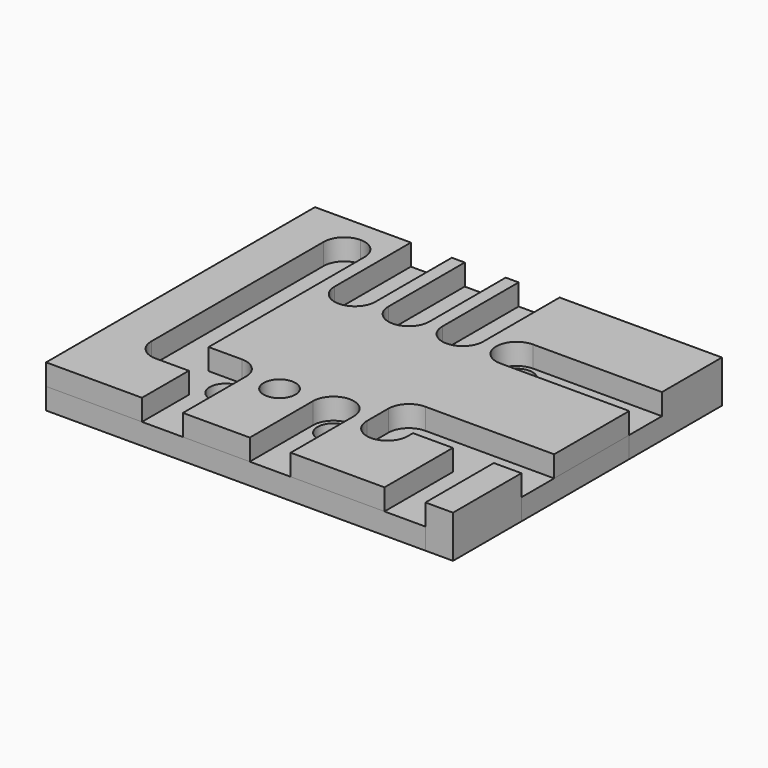
from build123d import *

# Parameters (mm, degrees)
F0_R     = 0.75
F0_W     = 1.3011230478
F0_H     = 4.0286443567
F1_DEPTH = 1
F2_DEPTH = 2


with BuildPart() as f1:
    # F0 (on Top) → F1 (new body)
    with BuildSketch(Plane.XY):
        with BuildLine():
            Line((-3.8324738853, 4.1799998197), (-3.8324738853, 8.6784018204))
            Line((-3.8324738853, 8.6784018204), (-8.3529148251, 8.6784018204))
            Line((-8.3529148251, 8.6784018204), (-8.3529148251, -7.163844537))
            Line((-8.3529148251, -7.163844537), (-3.8324738853, -7.163844537))
            Line((-3.8324738853, -7.163844537), (-3.8324738853, -4.4052001803))
            Line((-3.8324738853, -4.4052001803), (-5.4072738853, -4.4052001803))
            ThreePointArc((-5.4072738853, -4.4052001803), (-6.0897733505, -4.1224996455), (-6.3724738853, -3.4400001803))
            Line((-6.3724738853, -3.4400001803), (-6.3724738853, 6.7199998197))
            ThreePointArc((-6.3724738853, 6.7199998197), (-6.0897733505, 7.4024992849), (-5.4072738853, 7.6851998197))
            ThreePointArc((-5.4072738853, 7.6851998197), (-4.7247744201, 7.4024992849), (-4.4420738853, 6.7199998197))
            Line((-4.4420738853, 6.7199998197), (-4.4420738853, -2.4748001803))
            Line((-4.4420738853, -2.4748001803), (-2.8672738853, -2.4748001803))
            ThreePointArc((-2.8672738853, -2.4748001803), (-2.1847744201, -2.7575007151), (-1.9020738853, -3.4400001803))
            Line((-1.9020738853, -3.4400001803), (-1.9020738853, -7.163844537))
            Line((-1.9020738853, -7.163844537), (1.2475261147, -7.163844537))
            Line((1.2475261147, -7.163844537), (1.2475261147, -3.4400001803))
            ThreePointArc((1.2475261147, -3.4400001803), (2.2127261147, -2.4748001803), (3.1779261147, -3.4400001803))
            Line((3.1779261147, -3.4400001803), (3.1779261147, -7.163844537))
            Line((3.1779261147, -7.163844537), (7.5975261147, -7.163844537))
            Line((7.5975261147, -7.163844537), (7.5975261147, -3.1352001803))
            Line((7.5975261147, -3.1352001803), (5.7179261147, -3.1352001803))
            Line((5.7179261147, -3.1352001803), (5.7179261147, -3.4400001803))
            ThreePointArc((5.7179261147, -3.4400001803), (4.7527261147, -4.4052001803), (3.7875261147, -3.4400001803))
            Line((3.7875261147, -3.4400001803), (3.7875261147, -2.1700001803))
            ThreePointArc((3.7875261147, -2.1700001803), (4.0702266495, -1.4875007151), (4.7527261147, -1.2048001803))
            Line((4.7527261147, -1.2048001803), (8.5627261147, -1.2048001803))
            Line((8.5627261147, -1.2048001803), (10.8290491626, -1.2048001803))
            Line((10.8290491626, -1.2048001803), (10.8290491626, 3.2147998197))
            Line((10.8290491626, 3.2147998197), (4.7527261147, 3.2147998197))
            ThreePointArc((4.7527261147, 3.2147998197), (3.7875261147, 4.1799998197), (4.7527261147, 5.1451998197))
            Line((4.7527261147, 5.1451998197), (10.8290491626, 5.1451998197))
            Line((10.8290491626, 5.1451998197), (10.8290491626, 8.6784018204))
            Line((10.8290491626, 8.6784018204), (3.1779261147, 8.6784018204))
            Line((3.1779261147, 8.6784018204), (3.1779261147, 4.1799998197))
            ThreePointArc((3.1779261147, 4.1799998197), (2.2127261147, 3.2147998197), (1.2475261147, 4.1799998197))
            Line((1.2475261147, 4.1799998197), (1.2475261147, 8.6784018204))
            Line((1.2475261147, 8.6784018204), (0.6379261147, 8.6784018204))
            Line((0.6379261147, 8.6784018204), (0.6379261147, 4.1799998197))
            ThreePointArc((0.6379261147, 4.1799998197), (-0.3272738853, 3.2147998197), (-1.2924738853, 4.1799998197))
            Line((-1.2924738853, 4.1799998197), (-1.2924738853, 8.6784018204))
            Line((-1.2924738853, 8.6784018204), (-1.9020738853, 8.6784018204))
            Line((-1.9020738853, 8.6784018204), (-1.9020738853, 4.1799998197))
            ThreePointArc((-1.9020738853, 4.1799998197), (-2.8672738853, 3.2147998197), (-3.8324738853, 4.1799998197))
        make_face()
        with Locations((-0.3272738853, -3.4400001803)):
            Circle(F0_R, mode=Mode.SUBTRACT)
        with Locations((10.1784876386, -5.1495223586)):
            Rectangle(F0_W, F0_H)
        with BuildLine():
            Line((-6.3724738853, 6.7199998197), (-6.3724738853, -3.4400001803))
            ThreePointArc((-6.3724738853, -3.4400001803), (-6.0897733505, -2.7575007151), (-5.4072738853, -2.4748001803))
            Line((-5.4072738853, -2.4748001803), (-4.4420738853, -2.4748001803))
            Line((-4.4420738853, -2.4748001803), (-4.4420738853, 6.7199998197))
            ThreePointArc((-4.4420738853, 6.7199998197), (-4.7247744201, 7.4024992849), (-5.4072738853, 7.6851998197))
            ThreePointArc((-5.4072738853, 7.6851998197), (-6.0897733505, 7.4024992849), (-6.3724738853, 6.7199998197))
        make_face()
        with BuildLine():
            ThreePointArc((-6.3724738853, -3.4400001803), (-6.0897733505, -4.1224996455), (-5.4072738853, -4.4052001803))
            ThreePointArc((-5.4072738853, -4.4052001803), (-4.7247744201, -4.1224996455), (-4.4420738853, -3.4400001803))
            Line((-4.4420738853, -3.4400001803), (-4.4420738853, -2.4748001803))
            Line((-4.4420738853, -2.4748001803), (-5.4072738853, -2.4748001803))
            ThreePointArc((-5.4072738853, -2.4748001803), (-6.0897733505, -2.7575007151), (-6.3724738853, -3.4400001803))
        make_face()
        with BuildLine():
            Line((-5.4072738853, -4.4052001803), (-3.8324738853, -4.4052001803))
            Line((-3.8324738853, -4.4052001803), (-3.8324738853, -3.4400001803))
            ThreePointArc((-3.8324738853, -3.4400001803), (-3.5497733505, -2.7575007151), (-2.8672738853, -2.4748001803))
            Line((-2.8672738853, -2.4748001803), (-4.4420738853, -2.4748001803))
            Line((-4.4420738853, -2.4748001803), (-4.4420738853, -3.4400001803))
            ThreePointArc((-4.4420738853, -3.4400001803), (-4.7247744201, -4.1224996455), (-5.4072738853, -4.4052001803))
        make_face()
        with BuildLine():
            Line((-3.8324738853, -3.4400001803), (-3.8324738853, -4.4052001803))
            Line((-3.8324738853, -4.4052001803), (-2.8672738853, -4.4052001803))
            ThreePointArc((-2.8672738853, -4.4052001803), (-2.1847744201, -4.1224996455), (-1.9020738853, -3.4400001803))
            ThreePointArc((-1.9020738853, -3.4400001803), (-2.1847744201, -2.7575007151), (-2.8672738853, -2.4748001803))
            ThreePointArc((-2.8672738853, -2.4748001803), (-3.5497733505, -2.7575007151), (-3.8324738853, -3.4400001803))
        make_face()
        with Locations((-2.8672738853, -3.4400001803)):
            Circle(F0_R, mode=Mode.SUBTRACT)
        with BuildLine():
            Line((-3.8324738853, -4.4052001803), (-3.8324738853, -7.163844537))
            Line((-3.8324738853, -7.163844537), (-1.9020738853, -7.163844537))
            Line((-1.9020738853, -7.163844537), (-1.9020738853, -3.4400001803))
            ThreePointArc((-1.9020738853, -3.4400001803), (-2.1847744201, -4.1224996455), (-2.8672738853, -4.4052001803))
            Line((-2.8672738853, -4.4052001803), (-3.8324738853, -4.4052001803))
        make_face()
        with BuildLine():
            Line((1.2475261147, -3.4400001803), (1.2475261147, -7.163844537))
            Line((1.2475261147, -7.163844537), (3.1779261147, -7.163844537))
            Line((3.1779261147, -7.163844537), (3.1779261147, -3.4400001803))
            ThreePointArc((3.1779261147, -3.4400001803), (2.2127261147, -2.4748001803), (1.2475261147, -3.4400001803))
        make_face()
        with Locations((2.2127261147, -3.4400001803)):
            Circle(F0_R, mode=Mode.SUBTRACT)
        with BuildLine():
            Line((5.4379975646, -3.1352001803), (5.7179261147, -3.1352001803))
            Line((5.7179261147, -3.1352001803), (5.7179261147, -2.1700001803))
            ThreePointArc((5.7179261147, -2.1700001803), (5.4352255799, -1.4875007151), (4.7527261147, -1.2048001803))
            ThreePointArc((4.7527261147, -1.2048001803), (4.0702266495, -1.4875007151), (3.7875261147, -2.1700001803))
            ThreePointArc((3.7875261147, -2.1700001803), (3.8925168089, -2.607779794), (4.1846479344, -2.9503194874))
            ThreePointArc((4.1846479344, -2.9503194874), (4.8621737427, -2.6980290106), (5.4379975646, -3.1352001803))
        make_face()
        with BuildLine():
            Line((5.7179261147, -3.4400001803), (5.7179261147, -3.1352001803))
            Line((5.7179261147, -3.1352001803), (5.4379975646, -3.1352001803))
            ThreePointArc((5.4379975646, -3.1352001803), (5.4863655314, -3.2842015722), (5.5027261147, -3.4400001803))
            ThreePointArc((5.5027261147, -3.4400001803), (4.4915352221, -4.1430501911), (4.1846479344, -2.9503194874))
            ThreePointArc((4.1846479344, -2.9503194874), (3.8925168089, -2.607779794), (3.7875261147, -2.1700001803))
            Line((3.7875261147, -2.1700001803), (3.7875261147, -3.4400001803))
            ThreePointArc((3.7875261147, -3.4400001803), (4.7527261147, -4.4052001803), (5.7179261147, -3.4400001803))
        make_face()
        with BuildLine():
            Line((5.7179261147, -3.1352001803), (7.5975261147, -3.1352001803))
            Line((7.5975261147, -3.1352001803), (7.5975261147, -2.1700001803))
            ThreePointArc((7.5975261147, -2.1700001803), (7.8802266495, -1.4875007151), (8.5627261147, -1.2048001803))
            Line((8.5627261147, -1.2048001803), (4.7527261147, -1.2048001803))
            ThreePointArc((4.7527261147, -1.2048001803), (5.4352255799, -1.4875007151), (5.7179261147, -2.1700001803))
            Line((5.7179261147, -2.1700001803), (5.7179261147, -3.1352001803))
        make_face()
        with BuildLine():
            Line((9.5279261147, -2.1700001803), (9.5279261147, -3.1352001803))
            Line((9.5279261147, -3.1352001803), (10.8290491626, -3.1352001803))
            Line((10.8290491626, -3.1352001803), (10.8290491626, -1.2048001803))
            Line((10.8290491626, -1.2048001803), (8.5627261147, -1.2048001803))
            ThreePointArc((8.5627261147, -1.2048001803), (9.2452255799, -1.4875007151), (9.5279261147, -2.1700001803))
        make_face()
        with BuildLine():
            ThreePointArc((7.5975261147, -2.1700001803), (7.8802266495, -2.8524996455), (8.5627261147, -3.1352001803))
            ThreePointArc((8.5627261147, -3.1352001803), (9.2452255799, -2.8524996455), (9.5279261147, -2.1700001803))
            ThreePointArc((9.5279261147, -2.1700001803), (9.2452255799, -1.4875007151), (8.5627261147, -1.2048001803))
            ThreePointArc((8.5627261147, -1.2048001803), (7.8802266495, -1.4875007151), (7.5975261147, -2.1700001803))
        make_face()
        Polygon((7.5975261147, -3.1352001803), (7.5975261147, -7.163844537), (9.5279261147, -7.163844537), (9.5279261147, -3.1352001803), (8.5627261147, -3.1352001803), align=None)
        with BuildLine():
            Line((7.5975261147, -2.1700001803), (7.5975261147, -3.1352001803))
            Line((7.5975261147, -3.1352001803), (8.5627261147, -3.1352001803))
            ThreePointArc((8.5627261147, -3.1352001803), (7.8802266495, -2.8524996455), (7.5975261147, -2.1700001803))
        make_face()
        with BuildLine():
            ThreePointArc((9.5279261147, -2.1700001803), (9.2452255799, -2.8524996455), (8.5627261147, -3.1352001803))
            Line((8.5627261147, -3.1352001803), (9.5279261147, -3.1352001803))
            Line((9.5279261147, -3.1352001803), (9.5279261147, -2.1700001803))
        make_face()
        with BuildLine():
            Line((10.8290491626, 3.2147998197), (10.8290491626, 5.1451998197))
            Line((10.8290491626, 5.1451998197), (4.7527261147, 5.1451998197))
            ThreePointArc((4.7527261147, 5.1451998197), (3.7875261147, 4.1799998197), (4.7527261147, 3.2147998197))
            Line((4.7527261147, 3.2147998197), (10.8290491626, 3.2147998197))
        make_face()
        with Locations((4.7527261147, 4.1799998197)):
            Circle(F0_R, mode=Mode.SUBTRACT)
        with BuildLine():
            Line((3.1779261147, 8.6784018204), (1.2475261147, 8.6784018204))
            Line((1.2475261147, 8.6784018204), (1.2475261147, 4.1799998197))
            ThreePointArc((1.2475261147, 4.1799998197), (2.2127261147, 3.2147998197), (3.1779261147, 4.1799998197))
            Line((3.1779261147, 4.1799998197), (3.1779261147, 8.6784018204))
        make_face()
        with Locations((2.2127261147, 4.1799998197)):
            Circle(F0_R, mode=Mode.SUBTRACT)
        with BuildLine():
            Line((0.6379261147, 8.6784018204), (-1.2924738853, 8.6784018204))
            Line((-1.2924738853, 8.6784018204), (-1.2924738853, 4.1799998197))
            ThreePointArc((-1.2924738853, 4.1799998197), (-0.3272738853, 3.2147998197), (0.6379261147, 4.1799998197))
            Line((0.6379261147, 4.1799998197), (0.6379261147, 8.6784018204))
        make_face()
        with Locations((-0.3272738853, 4.1799998197)):
            Circle(F0_R, mode=Mode.SUBTRACT)
        with BuildLine():
            Line((-1.9020738853, 8.6784018204), (-3.8324738853, 8.6784018204))
            Line((-3.8324738853, 8.6784018204), (-3.8324738853, 4.1799998197))
            ThreePointArc((-3.8324738853, 4.1799998197), (-2.8672738853, 3.2147998197), (-1.9020738853, 4.1799998197))
            Line((-1.9020738853, 4.1799998197), (-1.9020738853, 8.6784018204))
        make_face()
        with Locations((-2.8672738853, 4.1799998197)):
            Circle(F0_R, mode=Mode.SUBTRACT)
    extrude(amount=F1_DEPTH)

    # F0 (on Top) → F2 (join)
    with BuildSketch(Plane.XY):
        with BuildLine():
            Line((-3.8324738853, 4.1799998197), (-3.8324738853, 8.6784018204))
            Line((-3.8324738853, 8.6784018204), (-8.3529148251, 8.6784018204))
            Line((-8.3529148251, 8.6784018204), (-8.3529148251, -7.163844537))
            Line((-8.3529148251, -7.163844537), (-3.8324738853, -7.163844537))
            Line((-3.8324738853, -7.163844537), (-3.8324738853, -4.4052001803))
            Line((-3.8324738853, -4.4052001803), (-5.4072738853, -4.4052001803))
            ThreePointArc((-5.4072738853, -4.4052001803), (-6.0897733505, -4.1224996455), (-6.3724738853, -3.4400001803))
            Line((-6.3724738853, -3.4400001803), (-6.3724738853, 6.7199998197))
            ThreePointArc((-6.3724738853, 6.7199998197), (-6.0897733505, 7.4024992849), (-5.4072738853, 7.6851998197))
            ThreePointArc((-5.4072738853, 7.6851998197), (-4.7247744201, 7.4024992849), (-4.4420738853, 6.7199998197))
            Line((-4.4420738853, 6.7199998197), (-4.4420738853, -2.4748001803))
            Line((-4.4420738853, -2.4748001803), (-2.8672738853, -2.4748001803))
            ThreePointArc((-2.8672738853, -2.4748001803), (-2.1847744201, -2.7575007151), (-1.9020738853, -3.4400001803))
            Line((-1.9020738853, -3.4400001803), (-1.9020738853, -7.163844537))
            Line((-1.9020738853, -7.163844537), (1.2475261147, -7.163844537))
            Line((1.2475261147, -7.163844537), (1.2475261147, -3.4400001803))
            ThreePointArc((1.2475261147, -3.4400001803), (2.2127261147, -2.4748001803), (3.1779261147, -3.4400001803))
            Line((3.1779261147, -3.4400001803), (3.1779261147, -7.163844537))
            Line((3.1779261147, -7.163844537), (7.5975261147, -7.163844537))
            Line((7.5975261147, -7.163844537), (7.5975261147, -3.1352001803))
            Line((7.5975261147, -3.1352001803), (5.7179261147, -3.1352001803))
            Line((5.7179261147, -3.1352001803), (5.7179261147, -3.4400001803))
            ThreePointArc((5.7179261147, -3.4400001803), (4.7527261147, -4.4052001803), (3.7875261147, -3.4400001803))
            Line((3.7875261147, -3.4400001803), (3.7875261147, -2.1700001803))
            ThreePointArc((3.7875261147, -2.1700001803), (4.0702266495, -1.4875007151), (4.7527261147, -1.2048001803))
            Line((4.7527261147, -1.2048001803), (8.5627261147, -1.2048001803))
            Line((8.5627261147, -1.2048001803), (10.8290491626, -1.2048001803))
            Line((10.8290491626, -1.2048001803), (10.8290491626, 3.2147998197))
            Line((10.8290491626, 3.2147998197), (4.7527261147, 3.2147998197))
            ThreePointArc((4.7527261147, 3.2147998197), (3.7875261147, 4.1799998197), (4.7527261147, 5.1451998197))
            Line((4.7527261147, 5.1451998197), (10.8290491626, 5.1451998197))
            Line((10.8290491626, 5.1451998197), (10.8290491626, 8.6784018204))
            Line((10.8290491626, 8.6784018204), (3.1779261147, 8.6784018204))
            Line((3.1779261147, 8.6784018204), (3.1779261147, 4.1799998197))
            ThreePointArc((3.1779261147, 4.1799998197), (2.2127261147, 3.2147998197), (1.2475261147, 4.1799998197))
            Line((1.2475261147, 4.1799998197), (1.2475261147, 8.6784018204))
            Line((1.2475261147, 8.6784018204), (0.6379261147, 8.6784018204))
            Line((0.6379261147, 8.6784018204), (0.6379261147, 4.1799998197))
            ThreePointArc((0.6379261147, 4.1799998197), (-0.3272738853, 3.2147998197), (-1.2924738853, 4.1799998197))
            Line((-1.2924738853, 4.1799998197), (-1.2924738853, 8.6784018204))
            Line((-1.2924738853, 8.6784018204), (-1.9020738853, 8.6784018204))
            Line((-1.9020738853, 8.6784018204), (-1.9020738853, 4.1799998197))
            ThreePointArc((-1.9020738853, 4.1799998197), (-2.8672738853, 3.2147998197), (-3.8324738853, 4.1799998197))
        make_face()
        with Locations((-0.3272738853, -3.4400001803)):
            Circle(F0_R, mode=Mode.SUBTRACT)
        with Locations((10.1784876386, -5.1495223586)):
            Rectangle(F0_W, F0_H)
    extrude(amount=F2_DEPTH)


solid = f1.part
